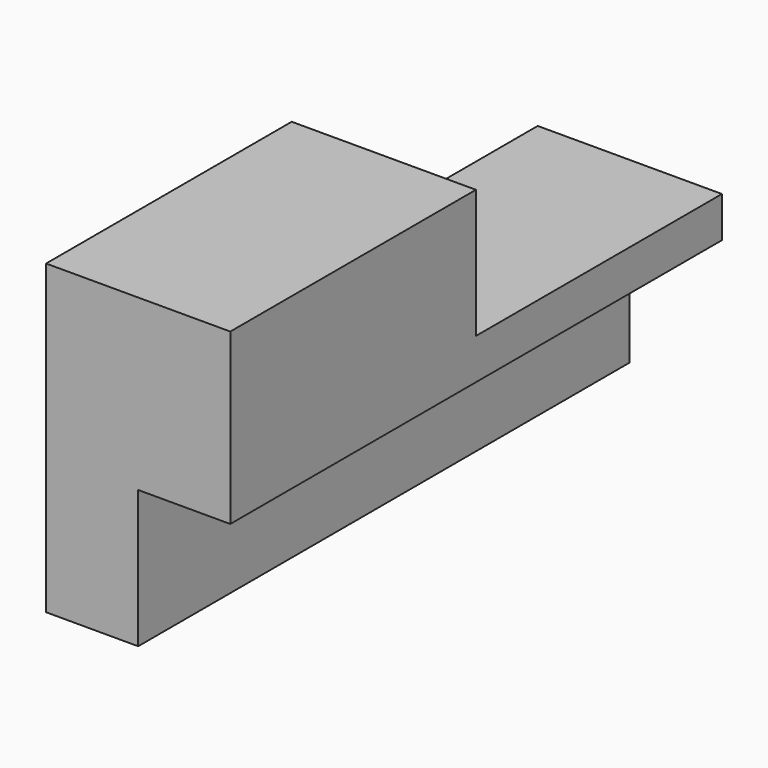
from build123d import *

# Parameters (mm, degrees)
F1_DEPTH = 38.1
F2_DEPTH = 19.05


with BuildPart() as f1:
    # F0 (on Right) → F1 (new body)
    with BuildSketch(Plane.YZ):
        Polygon((-65.823337, 37.798058), (-65.823337, 2.758966), (61.254921, 2.758966), (61.278079, 11.181071), (-2.323337, 11.181071), (-2.323337, 37.798058), align=None)
    extrude(amount=F1_DEPTH)

    # F0 (on Right) → F2 (join)
    with BuildSketch(Plane.YZ):
        Polygon((-65.823337, 2.758966), (-65.823337, -25.701942), (61.176663, -25.701942), (61.254921, 2.758966), align=None)
    extrude(amount=F2_DEPTH)


solid = f1.part
